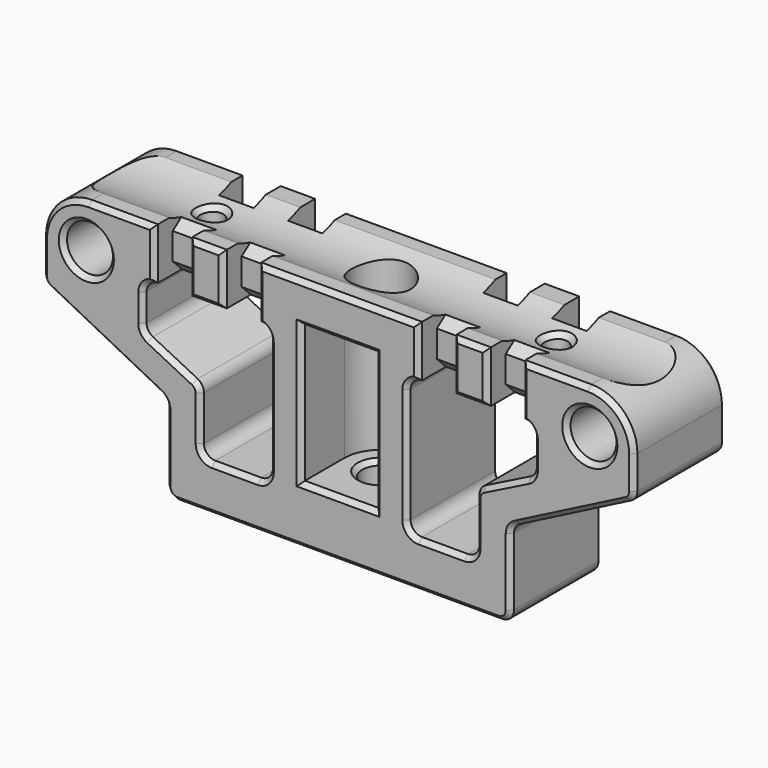
from build123d import *

# Parameters (mm, degrees)
SKETCH_R                                         = 2
PAD_DEPTH                                        = 10
SKETCH001_R                                      = 1.65
POCKET_DEPTH                                     = 5
POCKET001_DEPTH                                  = 12
SKETCH003_R                                      = 2.5
POCKET002_DEPTH                                  = 3.501
POCKET003_DEPTH                                  = 10.001
SKETCH005_W                                      = 4.5
SKETCH005_H                                      = 5.6
PAD001_DEPTH                                     = 2.5
CHAMFER_1_SIZE2                                  = 2
CHAMFER_1_SIZE                                   = 1
CHAMFER_2_SIZE2                                  = 2
CHAMFER_2_SIZE                                   = 1
CHAMFER005021077002006007019003032019002_1_SIZE2 = 2
CHAMFER005021077002006007019003032019002_1_SIZE  = 1
CHAMFER005021077002006007019003032019002_2_SIZE2 = 2
CHAMFER005021077002006007019003032019002_2_SIZE  = 1
CHAMFER005021077002006007019003032019003_SIZE2   = 1
CHAMFER005021077002006007019003032019003_SIZE    = 2
CHAMFER005021077002006007019003032019004_SIZE2   = 1
CHAMFER005021077002006007019003032019004_SIZE    = 2
SKETCH006_R                                      = 2.5
SKETCH006_R_2                                    = 1.65
PAD002_DEPTH                                     = 5
FILLET_R                                         = 4
FILLET001_R                                      = 1
FILLET002_R                                      = 1
SKETCH007_R                                      = 8
POCKET004_DEPTH                                  = 51.501
SKETCH008_R                                      = 1
SKETCH008_W                                      = 3
SKETCH008_H                                      = 2
POCKET005_DEPTH                                  = 5
CHAMFER005021077002006007019003032019005_SIZE    = 1
CHAMFER005021077002006007019003032019006_SIZE    = 0.4
CHAMFER005021077002006007019003032019008_SIZE    = 0.4


with BuildPart() as part:
    # Sketch → Pad (new body)
    with BuildSketch(Plane.XZ):
        Polygon((-25.75, 20.5), (25.75, 20.5), (25.75, 13), (15, 7.5), (15, 0), (-15, 0), (-15, 7.5), (-25.75, 13), align=None)
        with Locations((-21.925, 16.75)):
            Circle(SKETCH_R, mode=Mode.SUBTRACT)
        with Locations((21.925, 16.75)):
            Circle(SKETCH_R, mode=Mode.SUBTRACT)
    extrude(amount=PAD_DEPTH)

    # Sketch001 (on Face5 of Pad) → Pocket (cut)
    with BuildSketch(Plane(origin=(0, 0, 0), x_dir=(1, 0, 0), z_dir=(0, 0, -1))):
        with Locations((0, 5.3)):
            Circle(SKETCH001_R)
    extrude(amount=-POCKET_DEPTH, mode=Mode.SUBTRACT)

    # Sketch002 (on Face14 of Pocket) → Pocket001 (cut)
    with BuildSketch(Plane(origin=(0, 0, 5), x_dir=(1, 0, 0), z_dir=(0, 0, -1))):
        with BuildLine():
            ThreePointArc((-3.2, 5.3), (0, 2.1), (3.2, 5.3))
            Line((3.2, 10), (3.2, 5.3))
            Line((-3.2, 10), (3.2, 10))
            Line((-3.2, 5.3), (-3.2, 10))
        make_face()
    extrude(amount=-POCKET001_DEPTH, mode=Mode.SUBTRACT)

    # Sketch003 (on Face15 of Pocket001) → Pocket002 (cut, through all)
    with BuildSketch(Plane(origin=(0, 0, 17), x_dir=(1, 0, 0), z_dir=(0, 0, -1))):
        with Locations((0, 5.3)):
            Circle(SKETCH003_R)
    extrude(amount=-POCKET002_DEPTH, mode=Mode.SUBTRACT)

    # Sketch004 (on Face4 of Pocket002) → Pocket003 (cut, through all)
    with BuildSketch(Plane.XZ.offset(10)):
        Polygon((-17, 16), (-6, 16), (-6, 4), (-12, 4), (-12, 9.5), (-17, 12), align=None)
        Polygon((6, 16), (17, 16), (17, 12), (12, 9.5), (12, 4), (6, 4), align=None)
    extrude(amount=-POCKET003_DEPTH, mode=Mode.SUBTRACT)

    # Sketch005 (on Face11 of Pocket003) → Pad001 (join)
    with BuildSketch(Plane(origin=(0, 0, 0), x_dir=(1, 0, 0), z_dir=(0, 0, -1))):
        with Locations((-8.75, 2.8)):
            Rectangle(SKETCH005_W, SKETCH005_H)
        with Locations((8.75, 2.8)):
            Rectangle(SKETCH005_W, SKETCH005_H)
    extrude(amount=PAD001_DEPTH)

    # Chamfer 1
    chamfer_1_edges = [part.edges().sort_by_distance(p)[0] for p in [
        (-11, 0, -1.25),
        (-6.5, 0, -1.25),
    ]]
    chamfer_1_side = part.faces().sort_by_distance((-8.75, 0, -1.25))[0]
    chamfer(chamfer_1_edges, length=CHAMFER_1_SIZE, length2=CHAMFER_1_SIZE2, reference=chamfer_1_side)

    # Chamfer 2
    chamfer_2_edges = [part.edges().sort_by_distance(p)[0] for p in [
        (6.5, 0, -1.25),
        (11, 0, -1.25),
    ]]
    chamfer_2_side = part.faces().sort_by_distance((8.75, 0, -1.25))[0]
    chamfer(chamfer_2_edges, length=CHAMFER_2_SIZE, length2=CHAMFER_2_SIZE2, reference=chamfer_2_side)

    # Chamfer005021077002006007019003032019002 1
    chamfer005021077002006007019003032019002_1_edges = [part.edges().sort_by_distance(p)[0] for p in [
        (-6.5, -5.6, -1.25),
    ]]
    chamfer005021077002006007019003032019002_1_side = part.faces().sort_by_distance((-8.75, -5.6, -1.25))[0]
    chamfer(chamfer005021077002006007019003032019002_1_edges, length=CHAMFER005021077002006007019003032019002_1_SIZE, length2=CHAMFER005021077002006007019003032019002_1_SIZE2, reference=chamfer005021077002006007019003032019002_1_side)

    # Chamfer005021077002006007019003032019002 2
    chamfer005021077002006007019003032019002_2_edges = [part.edges().sort_by_distance(p)[0] for p in [
        (11, -5.6, -1.25),
    ]]
    chamfer005021077002006007019003032019002_2_side = part.faces().sort_by_distance((8.75, -5.6, -1.25))[0]
    chamfer(chamfer005021077002006007019003032019002_2_edges, length=CHAMFER005021077002006007019003032019002_2_SIZE, length2=CHAMFER005021077002006007019003032019002_2_SIZE2, reference=chamfer005021077002006007019003032019002_2_side)

    # Chamfer005021077002006007019003032019003
    chamfer005021077002006007019003032019003_edges = [part.edges().sort_by_distance(p)[0] for p in [
        (-11, -5.6, -1.25),
    ]]
    chamfer005021077002006007019003032019003_side = part.faces().sort_by_distance((-11, -3.8, -1.25))[0]
    chamfer(chamfer005021077002006007019003032019003_edges, length=CHAMFER005021077002006007019003032019003_SIZE, length2=CHAMFER005021077002006007019003032019003_SIZE2, reference=chamfer005021077002006007019003032019003_side)

    # Chamfer005021077002006007019003032019004
    chamfer005021077002006007019003032019004_edges = [part.edges().sort_by_distance(p)[0] for p in [
        (6.5, -5.6, -1.25),
    ]]
    chamfer005021077002006007019003032019004_side = part.faces().sort_by_distance((6.5, -3.8, -1.25))[0]
    chamfer(chamfer005021077002006007019003032019004_edges, length=CHAMFER005021077002006007019003032019004_SIZE, length2=CHAMFER005021077002006007019003032019004_SIZE2, reference=chamfer005021077002006007019003032019004_side)

    # Sketch006 (on Face6 of Chamfer005021077002006007019003032019004) → Pad002 (join)
    with BuildSketch(Plane(origin=(0, 0, 0), x_dir=(1, 0, 0), z_dir=(0, 1, 0))):
        with Locations((21.925, -16.75)):
            Circle(SKETCH006_R)
        with Locations((21.925, -16.75)):
            Circle(SKETCH006_R_2, mode=Mode.SUBTRACT)
        with Locations((-21.925, -16.75)):
            Circle(SKETCH006_R)
        with Locations((-21.925, -16.75)):
            Circle(SKETCH006_R_2, mode=Mode.SUBTRACT)
    extrude(amount=-PAD002_DEPTH)

    # Fillet
    fillet_edges = [part.edges().sort_by_distance(p)[0] for p in [
        (-25.75, -5, 20.5),
        (25.75, -5, 20.5),
    ]]
    fillet(fillet_edges, radius=FILLET_R)

    # Fillet001
    fillet001_edges = [part.edges().sort_by_distance(p)[0] for p in [
        (-25.75, -5, 13),
        (-15, -5, 0),
        (-15, -5, 7.5),
        (15, -5, 0),
        (15, -5, 7.5),
        (25.75, -5, 13),
    ]]
    fillet(fillet001_edges, radius=FILLET001_R)

    # Fillet002
    fillet002_edges = [part.edges().sort_by_distance(p)[0] for p in [
        (17, -5, 16),
        (12, -5, 9.5),
        (17, -5, 12),
        (12, -5, 4),
        (6, -5, 4),
        (6, -5, 16),
        (-17, -5, 16),
        (-12, -5, 9.5),
        (-6, -5, 16),
        (-6, -5, 4),
        (-12, -5, 4),
        (-17, -5, 12),
    ]]
    fillet(fillet002_edges, radius=FILLET002_R)

    # Sketch007 (on Face14 of Fillet002) → Pocket004 (cut, through all)
    with BuildSketch(Plane(origin=(-25.75, 0, 0), x_dir=(0, 0, -1), z_dir=(-1, 0, 0))):
        with Locations((-27.75, 5)):
            Circle(SKETCH007_R)
    extrude(amount=-POCKET004_DEPTH, mode=Mode.SUBTRACT)

    # Sketch008 (on Face42 of Pocket004) → Pocket005 (cut)
    with BuildSketch(Plane(origin=(0, 0, 20.5), x_dir=(-1, 0, 0), z_dir=(0, 0, 1))):
        with Locations((-15, 5)):
            Circle(SKETCH008_R)
        with Locations((15, 5)):
            Circle(SKETCH008_R)
        with Locations((-14.5, 1)):
            Rectangle(SKETCH008_W, SKETCH008_H)
        with Locations((-8.5, 1)):
            Rectangle(SKETCH008_W, SKETCH008_H)
        with Locations((8.5, 1)):
            Rectangle(SKETCH008_W, SKETCH008_H)
        with Locations((14.5, 1)):
            Rectangle(SKETCH008_W, SKETCH008_H)
        with Locations((14.5, 9)):
            Rectangle(SKETCH008_W, SKETCH008_H)
        with Locations((8.5, 9)):
            Rectangle(SKETCH008_W, SKETCH008_H)
        with Locations((-8.5, 9)):
            Rectangle(SKETCH008_W, SKETCH008_H)
        with Locations((-14.5, 9)):
            Rectangle(SKETCH008_W, SKETCH008_H)
    extrude(amount=-POCKET005_DEPTH, mode=Mode.SUBTRACT)

    # Chamfer005021077002006007019003032019005
    chamfer005021077002006007019003032019005_edges = [part.edges().sort_by_distance(p)[0] for p in [
        (-14.5, -8, 16),
        (-14.5, -2, 16),
        (-8.5, -2, 16),
        (-8.5, -8, 16),
        (8.5, -8, 16),
        (8.5, -2, 16),
        (14.5, -8, 16),
        (14.5, -2, 16),
        (14.5, -2, 20.333802),
        (14.5, -8, 20.333802),
        (8.5, -2, 20.333802),
        (8.5, -8, 20.333802),
        (-8.5, -2, 20.333802),
        (-14.5, -2, 20.333802),
        (-14.5, -8, 20.333802),
        (-8.5, -8, 20.333802),
    ]]
    chamfer(chamfer005021077002006007019003032019005_edges, length=CHAMFER005021077002006007019003032019005_SIZE)

    # Chamfer005021077002006007019003032019006
    chamfer005021077002006007019003032019006_edges = [part.edges().sort_by_distance(p)[0] for p in [
        (-25.603076, 0, 13.089867),
        (-20.375, 0, 10.25),
        (-15.146924, 0, 7.410133),
        (-15, 0, 3.944173),
        (-14.707107, 0, 0.292893),
        (-12, 0, 0),
        (-10, 0, -1.25),
        (-8.75, 0, -2.5),
        (-7.5, 0, -1.25),
        (0, 0, 0),
        (7.5, 0, -1.25),
        (8.75, 0, -2.5),
        (10, 0, -1.25),
        (12, 0, 0),
        (14.707107, 0, 0.292893),
        (15, 0, 3.944173),
        (15.146924, 0, 7.410133),
        (20.375, 0, 10.25),
        (25.603076, 0, 13.089867),
        (25.75, 0, 15.055827),
        (24.578427, 0, 19.328427),
        (18.875, 0, 20.5),
        (16, 0, 18.25),
        (16.707107, 0, 15.707107),
        (17, 0, 13.809017),
        (16.850651, 0, 12.092303),
        (14.5, 0, 10.75),
        (12.149349, 0, 9.407697),
        (12, 0, 6.940983),
        (11.707107, 0, 4.292893),
        (9, 0, 4),
        (6.292893, 0, 4.292893),
        (6, 0, 10),
        (6.292893, 0, 15.707107),
        (7, 0, 18.25),
        (0, 0, 20.5),
        (-7, 0, 18.25),
        (-6.292893, 0, 15.707107),
        (-6, 0, 10),
        (-6.292893, 0, 4.292893),
        (-9, 0, 4),
        (-11.707107, 0, 4.292893),
        (-12, 0, 6.940983),
        (-12.149349, 0, 9.407697),
        (-14.5, 0, 10.75),
        (-16.850651, 0, 12.092303),
        (-17, 0, 13.809017),
        (-16.707107, 0, 15.707107),
        (-16, 0, 18.25),
        (-18.875, 0, 20.5),
        (-24.578427, 0, 19.328427),
        (-25.75, 0, 15.055827),
        (20.275, 0, 16.75),
        (-23.575, 0, 16.75),
        (-16, -10, 18.25),
        (-18.875, -10, 20.5),
        (-24.578427, -10, 19.328427),
        (-25.75, -10, 15.055827),
        (-25.603076, -10, 13.089867),
        (-20.375, -10, 10.25),
        (-15.146924, -10, 7.410133),
        (-15, -10, 3.944173),
        (-14.707107, -10, 0.292893),
        (0, -10, 0),
        (14.707107, -10, 0.292893),
        (15, -10, 3.944173),
        (15.146924, -10, 7.410133),
        (20.375, -10, 10.25),
        (25.603076, -10, 13.089867),
        (25.75, -10, 15.055827),
        (24.578427, -10, 19.328427),
        (18.875, -10, 20.5),
        (16, -10, 18.25),
        (16.707107, -10, 15.707107),
        (17, -10, 13.809017),
        (16.850651, -10, 12.092303),
        (14.5, -10, 10.75),
        (12.149349, -10, 9.407697),
        (12, -10, 6.940983),
        (11.707107, -10, 4.292893),
        (9, -10, 4),
        (6.292893, -10, 4.292893),
        (6, -10, 10),
        (6.292893, -10, 15.707107),
        (7, -10, 18.25),
        (0, -10, 20.5),
        (-7, -10, 18.25),
        (-6.292893, -10, 15.707107),
        (-6, -10, 10),
        (-6.292893, -10, 4.292893),
        (-9, -10, 4),
        (-11.707107, -10, 4.292893),
        (-12, -10, 6.940983),
        (-12.149349, -10, 9.407697),
        (-14.5, -10, 10.75),
        (-16.850651, -10, 12.092303),
        (-17, -10, 13.809017),
        (-16.707107, -10, 15.707107),
        (-23.925, -10, 16.75),
        (0, -10, 5),
        (-3.2, -10, 11),
        (3.2, -10, 11),
        (0, -10, 17),
        (19.925, -10, 16.75),
        (-11.5, -10, 16),
        (-10, -10, 18.25),
        (-11.5, -10, 20.5),
        (-13, -10, 18.25),
        (10, -10, 18.25),
        (11.5, -10, 16),
        (13, -10, 18.25),
        (11.5, -10, 20.5),
        (-1.65, -5.3, 5),
        (-1.65, -5.3, 0),
    ]]
    chamfer(chamfer005021077002006007019003032019006_edges, length=CHAMFER005021077002006007019003032019006_SIZE)

    # Chamfer005021077002006007019003032019008
    chamfer005021077002006007019003032019008_edges = [part.edges().sort_by_distance(p)[0] for p in [
        (-15, -4, 19.812746),
        (15, -4, 19.812746),
    ]]
    chamfer(chamfer005021077002006007019003032019008_edges, length=CHAMFER005021077002006007019003032019008_SIZE)


with BuildPart() as part_1:
    # Body placement: moved
    add(part.part.moved(Location((0, 44.3, 13))))


solid = part_1.part
